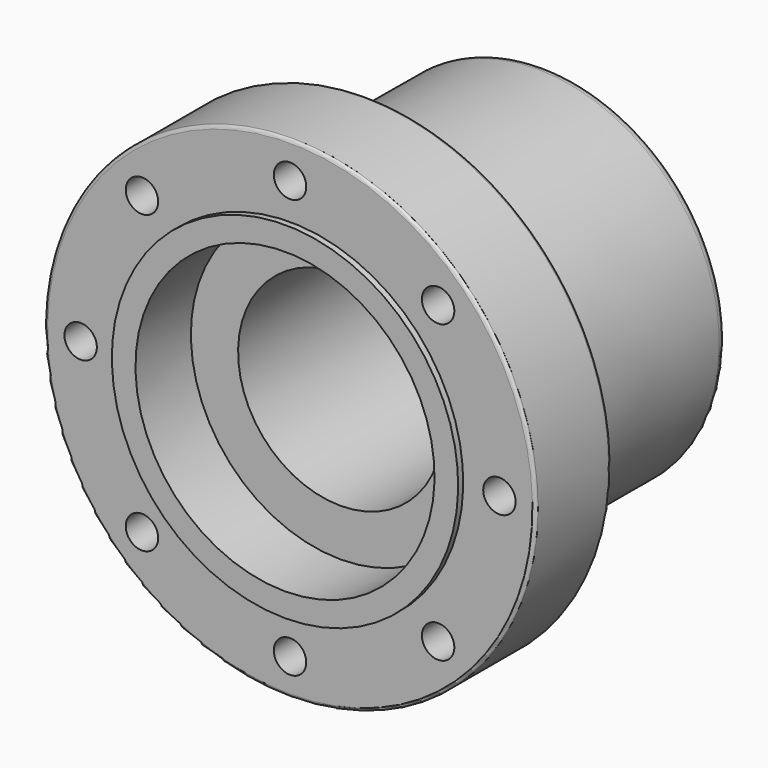
from build123d import *

# Parameters (mm, degrees)
F3_D     = 10.3
F3_DEPTH = 17.25
F3_TIP   = 3.094432188
F5_D     = 6.8
F5_DEPTH = 15.75
F5_TIP   = 2.0429261047


with BuildPart() as f1:
    # F0 (on Right) → F1 (revolve)
    with BuildSketch(Plane.YZ):
        with BuildLine():
            Line((0, -37.5), (0, -32.5))
            Line((0, -32.5), (-83.0061950125, -32.5))
            Line((-83.0061950125, -32.5), (-83.0061950125, -47.4970266223))
            Line((-83.0061950125, -47.4970266223), (-105.0061950125, -47.4970266223))
            Line((-105.0061950125, -47.4970266223), (-105.0061950125, -55))
            Line((-105.0061950125, -55), (-103.0061950125, -55))
            Line((-103.0061950125, -55), (-103.0061950125, -77))
            ThreePointArc((-103.0061950125, -77), (-102.7133017936, -77.7071067812), (-102.0061950125, -78))
            Line((-102.0061950125, -78), (-74.0061950125, -78))
            ThreePointArc((-74.0061950125, -78), (-73.2990882313, -77.7071067812), (-73.0061950125, -77))
            Line((-73.0061950125, -77), (-73.0061950125, -68.1163672938))
            ThreePointArc((-73.0061950125, -68.1163672938), (-70.0877927563, -61.055845118), (-63.0360003336, -58.1164117118))
            Line((-63.0360003336, -58.1164117118), (-4.9910584037, -57.94340613))
            ThreePointArc((-4.9910584037, -57.94340613), (-2.8755206768, -57.0615761081), (-2, -54.9434194554))
            Line((-2, -54.9434194554), (-2, -37.5))
            Line((-2, -37.5), (0, -37.5))
        make_face()
    revolve(axis=Axis((0, -33.4279872477, 0), (0, 1, 0)))

    # F3
    with Locations(Plane.XZ.offset(103.0061950125)):
        with Locations((0, 66.5), (47.0226009489, 47.0226009489), (66.5, 0), (47.0226009489, -47.0226009489), (0, -66.5), (-47.0226009489, -47.0226009489), (-66.5, 0), (-47.0226009489, 47.0226009489)):
            Hole(F3_D / 2, depth=F3_DEPTH)
            with Locations((0, 0, -(F3_DEPTH + F3_TIP / 2))):  # 118° drill point
                Cone(0, F3_D / 2, F3_TIP, mode=Mode.SUBTRACT)

    # F5
    with Locations(Plane(origin=(0, -2, 0), x_dir=(-1, 0, 0), z_dir=(0, 1, 0))):
        with Locations((0, 50.75), (35.8856691452, 35.8856691452), (50.75, 0), (35.8856691452, -35.8856691452), (0, -50.75), (-35.8856691452, -35.8856691452), (-50.75, 0), (-35.8856691452, 35.8856691452)):
            Hole(F5_D / 2, depth=F5_DEPTH)
            with Locations((0, 0, -(F5_DEPTH + F5_TIP / 2))):  # 118° drill point
                Cone(0, F5_D / 2, F5_TIP, mode=Mode.SUBTRACT)


solid = f1.part
